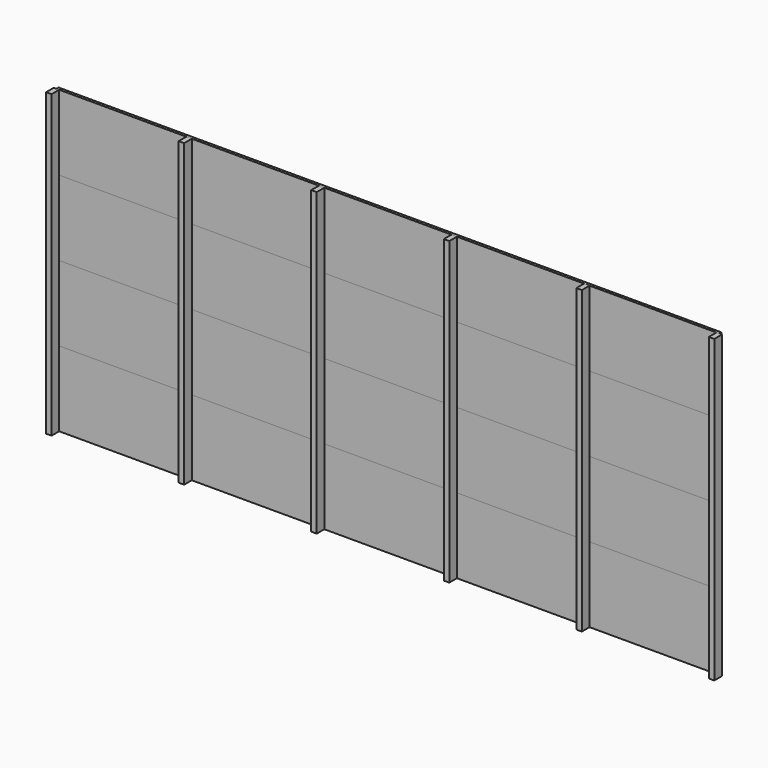
from build123d import *

# Parameters (mm, degrees)
F1_DEPTH  = 2200
F2_DEPTH  = 550
F3_W      = 3878.76008
F3_H      = 20
F2_FACE_W = 968.760081
F2_FACE_H = 19.621525
F4_DEPTH  = 550
F5_W      = 3878.76008
F5_H      = 20
F4_FACE_W = 968.76008
F4_FACE_H = 19.621525
F6_DEPTH  = 550
F7_W      = 3878.76008
F7_H      = 20
F6_FACE_W = 968.76008
F6_FACE_H = 19.621525
F8_DEPTH  = 550


with BuildPart() as f1:
    # F0 (on Top) → F1 (new body)
    with BuildSketch(Plane.XY):
        Polygon((0, 70), (0, 0), (40, 0), (40, 70), (20, 70), align=None)
        Polygon((990, 70), (970, 70), (970, 0), (1010, 0), (1010, 70), align=None)
        Polygon((1960, 70), (1940, 70), (1940, 0), (1980, 0), (1980, 70), align=None)
        Polygon((2950, 70), (2930, 70), (2910, 70), (2910, 0), (2950, 0), align=None)
        Polygon((3900, 70), (3880, 70), (3880, 0), (3920, 0), (3920, 70), align=None)
        Polygon((4888.76008, 70.378475), (4868.76008, 70.378475), (4868.76008, 70), (4848.76008, 70), (4848.76008, 0.378475), (4888.76008, 0.378475), align=None)
    extrude(amount=F1_DEPTH)


with BuildPart() as f2:
    # F0 (on Top) → F2 (new body)
    with BuildSketch(Plane.XY):
        Polygon((20, 70), (40, 70), (970, 70), (990, 70), (990, 90), (20, 90), align=None)
        Polygon((990, 90), (990, 70), (1010, 70), (1940, 70), (1960, 70), (1960, 90), align=None)
        Polygon((2930, 90), (1960, 90), (1960, 70), (1980, 70), (2910, 70), (2930, 70), align=None)
        Polygon((3898.76008, 90), (2930, 90), (2930, 70), (2950, 70), (3880, 70), (3900, 70), (3900, 70.378475), (3898.76008, 70.378475), align=None)
        Polygon((4868.76008, 90), (3900, 90), (3900, 70.378475), (4848.76008, 70.378475), (4868.76008, 70.378475), align=None)
    extrude(amount=F2_DEPTH)


with BuildPart() as f4:
    # F3 (on face) + F2_face (on face) → F4 (new body)
    with BuildSketch(Plane.XY.offset(550)):
        with Locations((1959.38004, 80)):
            Rectangle(F3_W, F3_H)
    with BuildSketch(Plane(origin=(1959.391776, 79.999941, 550), x_dir=(1, 0, 0), z_dir=(0, 0, 1))):
        with Locations((2424.988264, 0.189297)):
            Rectangle(F2_FACE_W, F2_FACE_H)
    extrude(amount=F4_DEPTH)


with BuildPart() as f6:
    # F5 (on face) + F4_face (on face) → F6 (new body)
    with BuildSketch(Plane.XY.offset(1100)):
        with Locations((1959.38004, 80)):
            Rectangle(F5_W, F5_H)
    with BuildSketch(Plane(origin=(1959.38004, 80, 1100), x_dir=(1, 0, 0), z_dir=(0, 0, 1))):
        with Locations((2425, 0.189237)):
            Rectangle(F4_FACE_W, F4_FACE_H)
    extrude(amount=F6_DEPTH)


with BuildPart() as f8:
    # F7 (on face) + F6_face (on face) → F8 (new body)
    with BuildSketch(Plane.XY.offset(1650)):
        with Locations((1959.38004, 80)):
            Rectangle(F7_W, F7_H)
    with BuildSketch(Plane(origin=(1959.38004, 80, 1650), x_dir=(1, 0, 0), z_dir=(0, 0, 1))):
        with Locations((2425, 0.189237)):
            Rectangle(F6_FACE_W, F6_FACE_H)
    extrude(amount=F8_DEPTH)


solid = Compound([f1.part, f2.part, f4.part, f6.part, f8.part])
